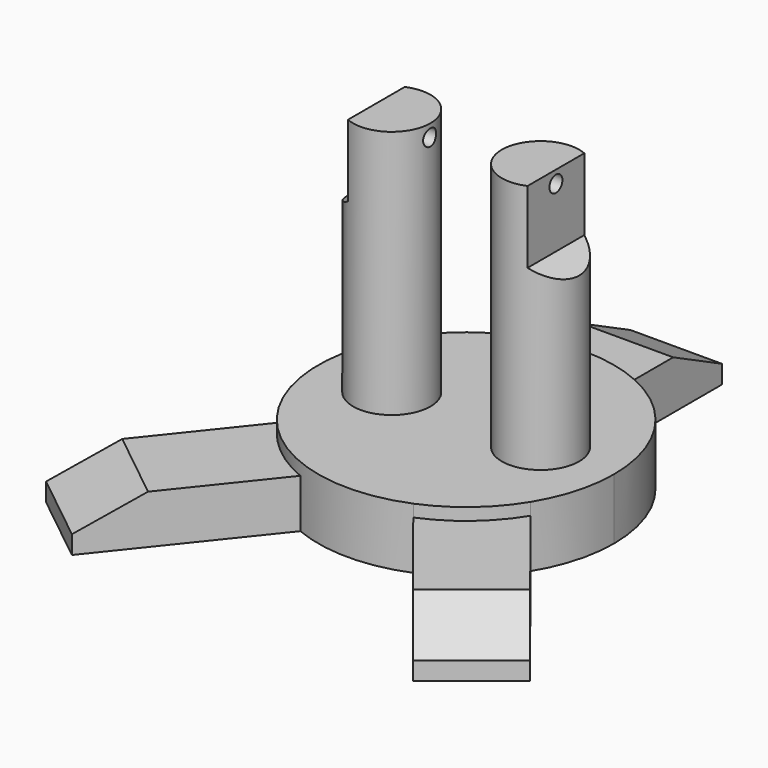
from build123d import *

# Parameters (mm, degrees)
F1_DEPTH      = 25.4
F2_DEPTH      = 20.32
F3_SIZE2      = 12.7
F3_SIZE       = 25.4
F4_SIZE2      = 25.4
F4_SIZE       = 12.7
F4_2_SIZE2    = 25.4
F4_2_SIZE     = 12.7
F5_R          = 16.1148296274
F6_DEPTH      = 103.886
F8_DEPTH      = 109.4047297446
F8_DEPTH_BACK = 116.5023496438
F9_R          = 3.3795298113
F10_DEPTH     = 138.2457237613


with BuildPart() as f1:
    # F0 (on Top) → F1 (new body)
    with BuildSketch(Plane.XY):
        with BuildLine():
            ThreePointArc((52.5300336642, -32.2163809765), (59.3056389857, -16.7374079377), (61.6222333252, 0))
            ThreePointArc((61.6222333252, 0), (49.8558080108, 36.2173721792), (19.05, 58.6037297446))
            ThreePointArc((19.05, 58.6037297446), (0, 61.6222333252), (-19.05, 58.6037297446))
            ThreePointArc((-19.05, 58.6037297446), (-57.8186685482, 21.31434276), (-52.5300336642, -32.2163809765))
            ThreePointArc((-52.5300336642, -32.2163809765), (-39.9894732611, -46.8843435305), (-23.5270019404, -56.9541905366))
            ThreePointArc((-23.5270019404, -56.9541905366), (0, -61.6222333252), (23.5270019404, -56.9541905366))
            ThreePointArc((23.5270019404, -56.9541905366), (39.9894732611, -46.8843435305), (52.5300336642, -32.2163809765))
        make_face()
    extrude(amount=F1_DEPTH)

    # F0 (on Top) → F2 (join)
    with BuildSketch(Plane.XY):
        with BuildLine():
            ThreePointArc((-23.5270019404, -56.9541905366), (-39.9894732611, -46.8843435305), (-52.5300336642, -32.2163809765))
            Line((-52.5300336642, -32.2163809765), (-100.8460948708, -92.7285929554))
            Line((-100.8460948708, -92.7285929554), (-71.0725153171, -116.5013496438))
            Line((-71.0725153171, -116.5013496438), (-23.5270019404, -56.9541905366))
        make_face()
        with BuildLine():
            ThreePointArc((-19.05, 58.6037297446), (0, 61.6222333252), (19.05, 58.6037297446))
            Line((19.05, 58.6037297446), (19.05, 109.4037297446))
            Line((19.05, 109.4037297446), (-19.05, 109.4037297446))
            Line((-19.05, 109.4037297446), (-19.05, 58.6037297446))
        make_face()
        with BuildLine():
            Line((100.8460948708, -92.7285929554), (52.5300336642, -32.2163809765))
            ThreePointArc((52.5300336642, -32.2163809765), (39.9894732611, -46.8843435305), (23.5270019404, -56.9541905366))
            Line((23.5270019404, -56.9541905366), (71.0725153171, -116.5013496438))
            Line((71.0725153171, -116.5013496438), (100.8460948708, -92.7285929554))
        make_face()
    extrude(amount=F2_DEPTH)

    # F3
    f3_edges = [f1.edges().sort_by_distance(p)[0] for p in [
        (85.959305, -104.614971, 20.32),
    ]]
    f3_side = f1.faces().sort_by_distance((62.662137, -75.354715, 20.32))[0]
    chamfer(f3_edges, length=F3_SIZE, length2=F3_SIZE2, reference=f3_side)

    # F4
    f4_edges = [f1.edges().sort_by_distance(p)[0] for p in [
        (-85.959305, -104.614971, 20.32),
    ]]
    f4_side = f1.faces().sort_by_distance((-85.959305, -104.614971, 10.16))[0]
    chamfer(f4_edges, length=F4_SIZE, length2=F4_SIZE2, reference=f4_side)

    # F4#2
    f4_2_edges = [f1.edges().sort_by_distance(p)[0] for p in [
        (0, 109.40373, 20.32),
    ]]
    f4_2_side = f1.faces().sort_by_distance((0, 109.40373, 10.16))[0]
    chamfer(f4_2_edges, length=F4_2_SIZE, length2=F4_2_SIZE2, reference=f4_2_side)

    # F5 (on face) → F6 (join)
    with BuildSketch(Plane.XY.offset(25.4)):
        with Locations((-30.9876389802, 0)):
            Circle(F5_R)
        with Locations((30.9876389802, 0)):
            Circle(F5_R)
    extrude(amount=F6_DEPTH)

    # F7 (on Front) → F8 (cut, two sides)
    with BuildSketch(Plane.XZ) as f8_sk:
        Polygon((47.1024686075, 129.286), (37.3986288905, 129.286), (37.3986288905, 99.2526204783), (47.1024686075, 93.5718588345), align=None)
        Polygon((-47.1024686075, 129.286), (-47.1024686075, 93.5718588345), (-37.3986288905, 99.2526204783), (-37.3986288905, 129.286), align=None)
    extrude(amount=-F8_DEPTH, mode=Mode.SUBTRACT)
    extrude(f8_sk.sketch, amount=F8_DEPTH_BACK, mode=Mode.SUBTRACT)

    # F9 (on face) → F10 (cut, through all)
    with BuildSketch(Plane(origin=(-37.3986288905, 0, 0), x_dir=(0, -1, 0), z_dir=(-1, 0, 0))):
        with Locations((0, 124.0975558758)):
            Circle(F9_R)
    extrude(amount=-F10_DEPTH, mode=Mode.SUBTRACT)


solid = f1.part
